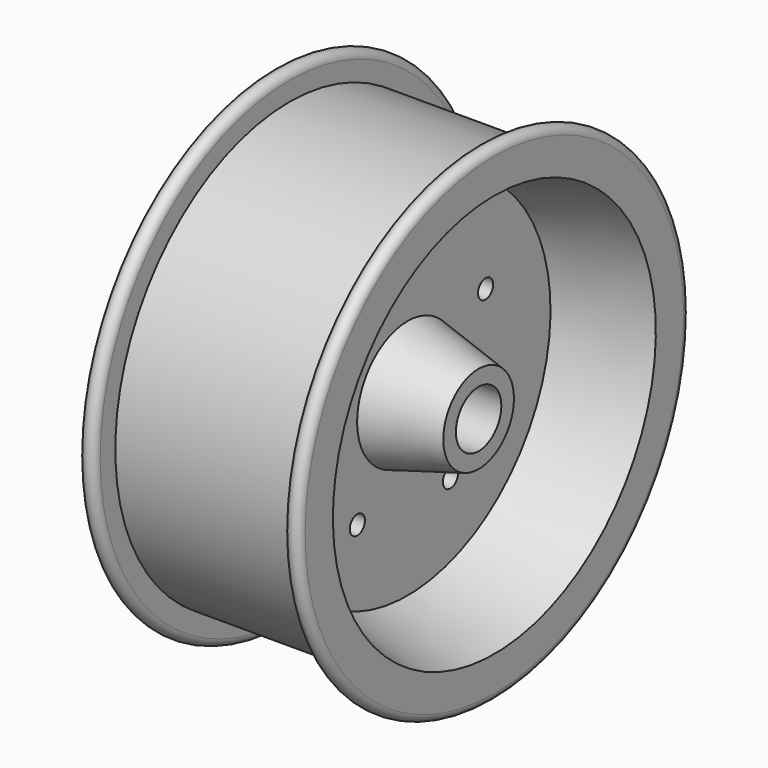
from build123d import *

# Parameters (mm, degrees)
F2_R     = 3.81
F3_DEPTH = 53.976


with BuildPart() as f1:
    # F0 (on Front) → F1 (revolve)
    with BuildSketch(Plane.XZ):
        with BuildLine():
            Line((-38.1, -27.199168), (-38.1, -33.549168))
            Line((-38.1, -33.549168), (0, -33.549168))
            Line((0, -33.549168), (38.1, -33.549168))
            Line((38.1, -33.549168), (38.1, -27.199168))
            Line((38.1, -27.199168), (9.525, -19.54252))
            Line((9.525, -19.54252), (9.525, 26.942706))
            Line((9.525, 26.942706), (44.45, 36.300832))
            Line((44.45, 36.300832), (44.45, 50.270832))
            ThreePointArc((44.45, 50.270832), (41.275, 53.445832), (38.1, 50.270832))
            Line((38.1, 50.270832), (38.1, 42.650832))
            Line((38.1, 42.650832), (0, 42.650832))
            Line((0, 42.650832), (-38.1, 42.650832))
            Line((-38.1, 42.650832), (-38.1, 50.270832))
            ThreePointArc((-38.1, 50.270832), (-41.275, 53.445832), (-44.45, 50.270832))
            Line((-44.45, 50.270832), (-44.45, 36.300832))
            Line((-44.45, 36.300832), (-9.525, 26.942706))
            Line((-9.525, 26.942706), (-9.525, -19.54252))
            Line((-9.525, -19.54252), (-38.1, -27.199168))
        make_face()
    revolve(axis=Axis((-0.304803, 0, -44.979168), (1, 0, 0)))

    # F2 (on face) → F3 (cut, through all)
    with BuildSketch(Plane.YZ.offset(9.525)):
        Circle(F2_R)
        with Locations((39.232661, -24.084174)):
            Circle(F2_R)
        with Locations((-40.86215, -27.483819)):
            Circle(F2_R)
        with Locations((-25.329448, -81.506166)):
            Circle(F2_R)
        with Locations((21.542977, -83.859788)):
            Circle(F2_R)
    extrude(amount=-F3_DEPTH, mode=Mode.SUBTRACT)


solid = f1.part
